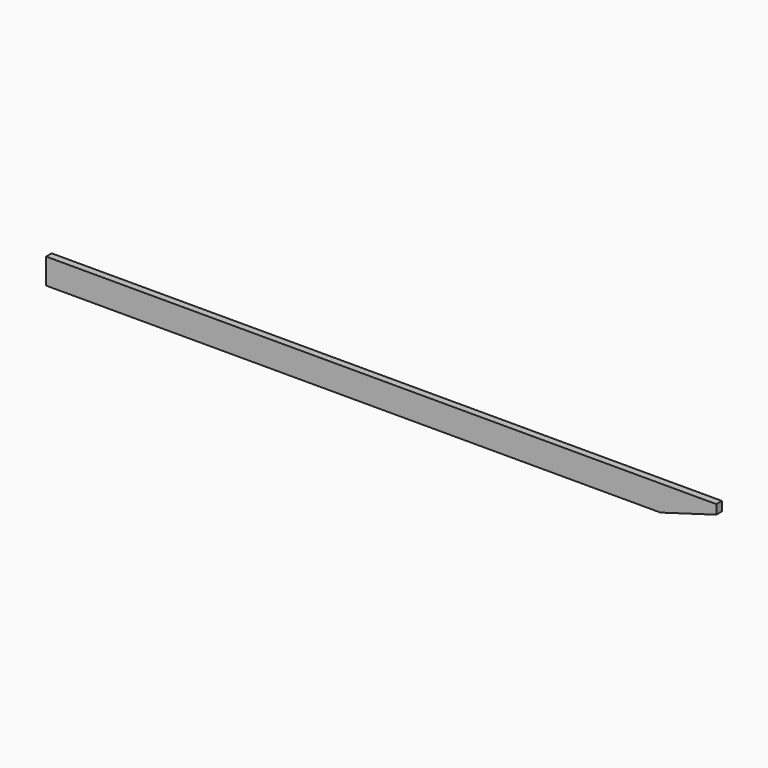
from build123d import *

# Parameters (mm, degrees)
F0_W     = 38.1
F0_H     = 139.7
F1_DEPTH = 3657.6
F3_DEPTH = 38.101


with BuildPart() as f1:
    # F0 (on Right) → F1 (new body)
    with BuildSketch(Plane.YZ):
        with Locations((19.05, 69.85)):
            Rectangle(F0_W, F0_H)
    extrude(amount=F1_DEPTH)

    # F2 (on face) → F3 (cut, through all)
    with BuildSketch(Plane.XZ):
        Polygon((3352.8, 0), (3657.6, 0), (3657.6, 88.9), align=None)
    extrude(amount=-F3_DEPTH, mode=Mode.SUBTRACT)


solid = f1.part
